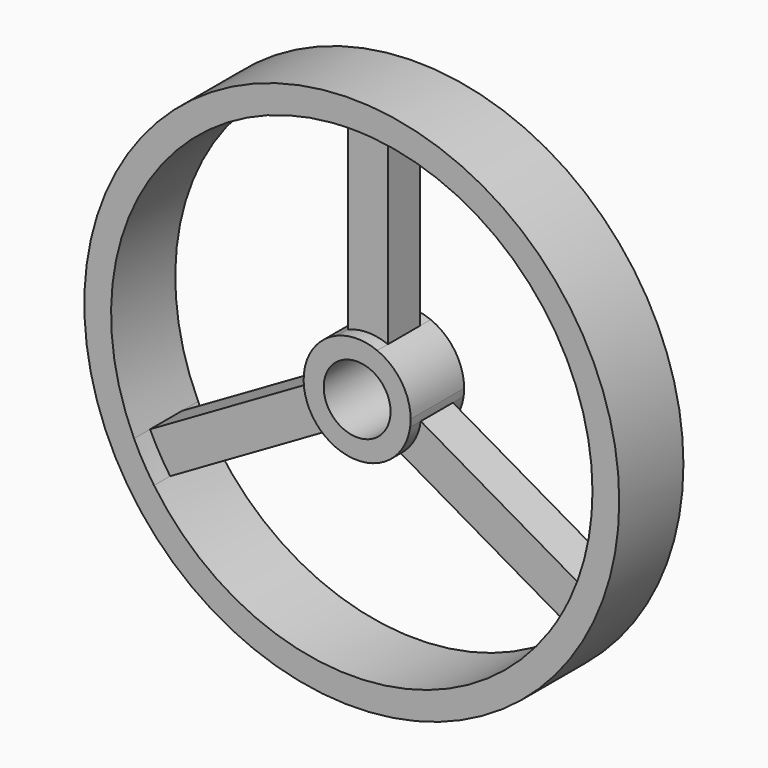
from build123d import *

# Parameters (mm, degrees)
F0_R     = 127
F1_DEPTH = 19.05
F2_DEPTH = 9.525
F0_R_2   = 15.875
F3_DEPTH = 15.875


with BuildPart() as f1:
    # F0 (on Front) → F1 (new body, symmetric)
    with BuildSketch(Plane.XZ):
        Circle(F0_R)
        with BuildLine():
            ThreePointArc((-9.525, 113.902434), (0, 114.3), (9.525, 113.902434))
            ThreePointArc((9.525, 113.902434), (84.122522, 77.381466), (114.3, 0))
            ThreePointArc((114.3, 0), (111.542974, -24.953054), (103.404901, -48.702325))
            ThreePointArc((103.404901, -48.702325), (98.986704, -57.15), (93.879901, -65.200109))
            ThreePointArc((93.879901, -65.200109), (0, -114.3), (-93.879901, -65.200109))
            ThreePointArc((-93.879901, -65.200109), (-98.986704, -57.15), (-103.404901, -48.702325))
            ThreePointArc((-103.404901, -48.702325), (-98.986704, 57.15), (-9.525, 113.902434))
        make_face(mode=Mode.SUBTRACT)
    extrude(amount=F1_DEPTH, both=True)

    # F0 (on Front) → F2 (join, symmetric)
    with BuildSketch(Plane.XZ):
        with BuildLine():
            ThreePointArc((-15.629307, -20.022107), (-21.997045, -12.7), (-25.154307, -3.524323))
            Line((-25.154307, -3.524323), (-103.404901, -48.702325))
            ThreePointArc((-103.404901, -48.702325), (-98.986704, -57.15), (-93.879901, -65.200109))
            Line((-93.879901, -65.200109), (-15.629307, -20.022107))
        make_face()
        with BuildLine():
            Line((103.404901, -48.702325), (25.154307, -3.524323))
            ThreePointArc((25.154307, -3.524323), (21.997045, -12.7), (15.629307, -20.022107))
            Line((15.629307, -20.022107), (93.879901, -65.200109))
            ThreePointArc((93.879901, -65.200109), (98.986704, -57.15), (103.404901, -48.702325))
        make_face()
        with BuildLine():
            ThreePointArc((-9.525, 23.54643), (0, 25.4), (9.525, 23.54643))
            Line((9.525, 23.54643), (9.525, 113.902434))
            ThreePointArc((9.525, 113.902434), (0, 114.3), (-9.525, 113.902434))
            Line((-9.525, 113.902434), (-9.525, 23.54643))
        make_face()
    extrude(amount=F2_DEPTH, both=True)

    # F0 (on Front) → F3 (join, symmetric)
    with BuildSketch(Plane.XZ):
        with BuildLine():
            ThreePointArc((25.154307, -3.524323), (25.338502, -1.766438), (25.4, 0))
            ThreePointArc((25.4, 0), (21.060567, 14.199032), (9.525, 23.54643))
            ThreePointArc((9.525, 23.54643), (0, 25.4), (-9.525, 23.54643))
            ThreePointArc((-9.525, 23.54643), (-21.997045, 12.7), (-25.154307, -3.524323))
            ThreePointArc((-25.154307, -3.524323), (-21.997045, -12.7), (-15.629307, -20.022107))
            ThreePointArc((-15.629307, -20.022107), (0, -25.4), (15.629307, -20.022107))
            ThreePointArc((15.629307, -20.022107), (21.997045, -12.7), (25.154307, -3.524323))
        make_face()
        Circle(F0_R_2, mode=Mode.SUBTRACT)
    extrude(amount=F3_DEPTH, both=True)


solid = f1.part
